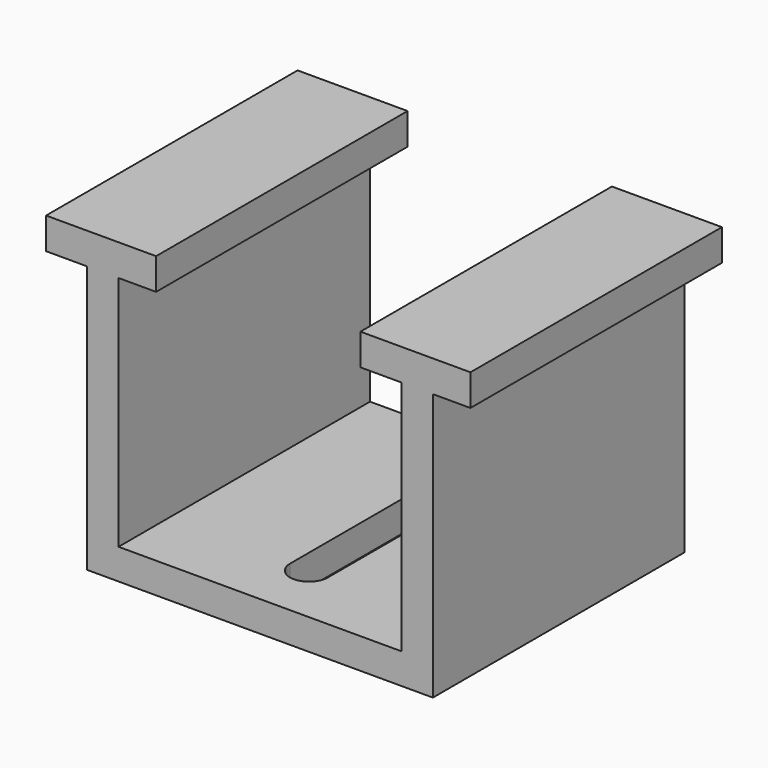
from build123d import *

# Parameters (mm, degrees)
F1_DEPTH = 100
F3_DEPTH = 29


with BuildPart() as f1:
    # F0 (on Front) → F1 (new body)
    with BuildSketch(Plane.XZ):
        Polygon((-59.58884, 51.302213), (-72.644392, 51.302213), (-72.644392, 41.302213), (-59.58884, 41.302213), (-59.58884, -33.975578), (-59.58884, -43.697798), (-49.58884, -43.697798), (40.41116, -43.697798), (50.41116, -43.697798), (50.41116, -33.975578), (50.41116, 41.302213), (62.355608, 41.302213), (62.355608, 51.302213), (50.41116, 51.302213), (40.41116, 51.302213), (27.355608, 51.302213), (27.355608, 41.302213), (40.41116, 41.302213), (40.41116, -33.975578), (-49.58884, -33.975578), (-49.58884, 41.302213), (-37.644392, 41.302213), (-37.644392, 51.302213), (-49.58884, 51.302213), align=None)
    extrude(amount=F1_DEPTH)

    # F2 (on face) → F3 (cut)
    with BuildSketch(Plane(origin=(0, 0, -43.697798), x_dir=(1, 0, 0), z_dir=(0, 0, -1))):
        with BuildLine():
            ThreePointArc((1.325937, 80.42562), (-4.674063, 86.42562), (-10.674063, 80.42562))
            Line((-10.674063, 80.42562), (-10.674063, 15.42562))
            ThreePointArc((-10.674063, 15.42562), (-4.674063, 9.42562), (1.325937, 15.42562))
            Line((1.325937, 15.42562), (1.325937, 80.42562))
        make_face()
    extrude(amount=-F3_DEPTH, mode=Mode.SUBTRACT)


solid = f1.part
